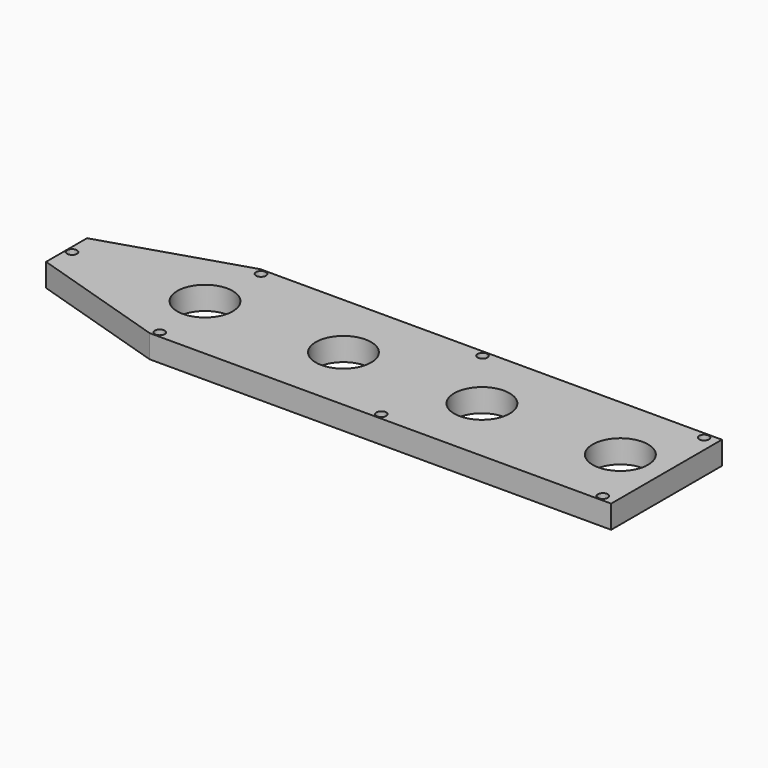
from build123d import *

# Parameters (mm, degrees)
F1_DEPTH = 6.35
F2_R     = 1.3589
F2_R_2   = 7.62
F3_DEPTH = 25.4


with BuildPart() as f1:
    # F0 (on Top) → F1 (new body)
    with BuildSketch(Plane.XY):
        Polygon((127, 19.05), (0, 19.05), (-38.1, 7.037116), (-38.1, -7.037116), (0, -19.05), (127, -19.05), align=None)
    extrude(amount=F1_DEPTH)

    # F2 (on face) → F3 (cut)
    with BuildSketch(Plane.XY.offset(6.35)):
        with Locations((1.478483, 17.407306)):
            Circle(F2_R)
        with Locations((62.438483, 17.407306)):
            Circle(F2_R)
        with Locations((123.398483, 17.407306)):
            Circle(F2_R)
        with Locations((123.398483, -17.407306)):
            Circle(F2_R)
        with Locations((62.438483, -17.407306)):
            Circle(F2_R)
        with Locations((1.478483, -17.407306)):
            Circle(F2_R)
        with Locations((-36.586363, 0)):
            Circle(F2_R)
        Circle(F2_R_2)
        with Locations((38.1, 0)):
            Circle(F2_R_2)
        with Locations((76.2, 0)):
            Circle(F2_R_2)
        with Locations((114.3, 0)):
            Circle(F2_R_2)
    extrude(amount=-F3_DEPTH, mode=Mode.SUBTRACT)


solid = f1.part
